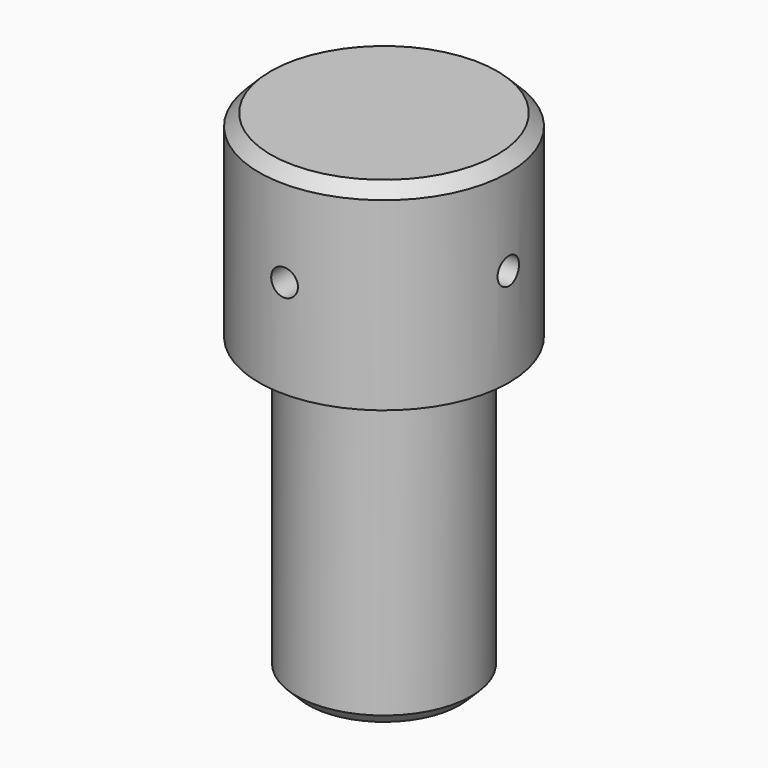
from build123d import *

# Parameters (mm, degrees)
F0_R       = 22.225
F1_DEPTH   = 76.2
F0_R_2     = 31.75
F2_DEPTH   = 50
F3_SIZE    = 3
F9_D       = 6.8
F9_ON_F7_D = 6.8


with BuildPart() as f1:
    # F0 (on Top) → F1 (new body)
    with BuildSketch(Plane.XY):
        Circle(F0_R)
    extrude(amount=-F1_DEPTH)

    # F0 (on Top) → F2 (join)
    with BuildSketch(Plane.XY):
        Circle(F0_R_2)
        Circle(F0_R, mode=Mode.SUBTRACT)
        Circle(F0_R)
    extrude(amount=F2_DEPTH)

    # F3
    f3_edges = [f1.edges().sort_by_distance(p)[0] for p in [
        (-31.75, 0, 50),
        (-22.225, 0, -76.2),
    ]]
    chamfer(f3_edges, length=F3_SIZE)

    # F9 (through all)
    with Locations(Plane.XZ.offset(31.75)):
        with Locations((0, 25)):
            Hole(F9_D / 2)

    # F9 on F7 (through all)
    with Locations(Plane.YZ.offset(31.75)):
        with Locations((0, 25)):
            Hole(F9_ON_F7_D / 2)


solid = f1.part
